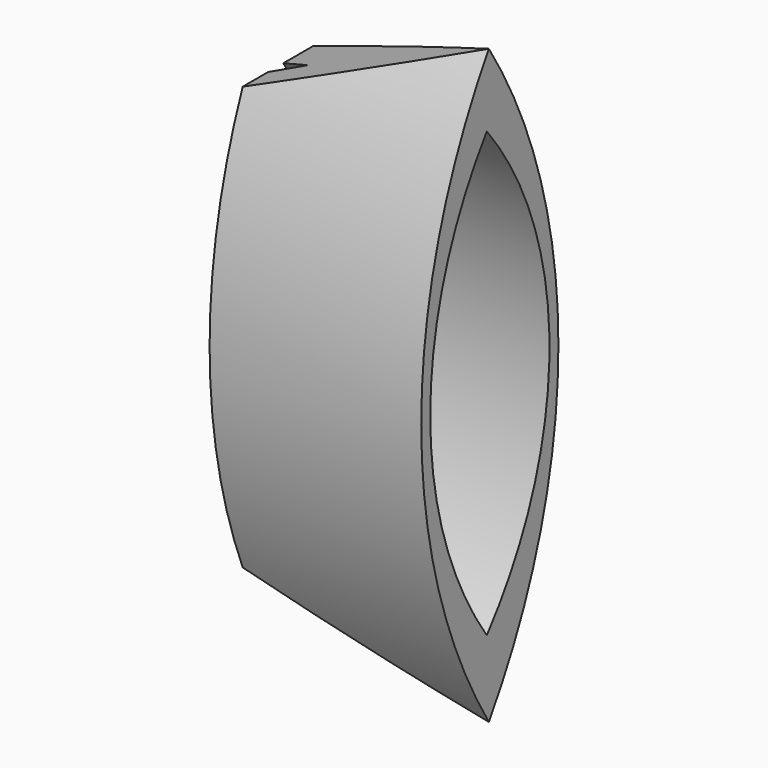
from build123d import *

# Parameters (mm, degrees)
F0_W     = 50
F0_H     = 140
F1_DEPTH = 42
F3_DEPTH = 42
F5_DEPTH = 50
F7_DEPTH = 50
F9_DEPTH = 50


with BuildPart() as f1:
    # F0 (on Front) → F1 (new body)
    with BuildSketch(Plane.XZ):
        Rectangle(F0_W, F0_H)
    extrude(amount=F1_DEPTH)

    # F2 (on face) → F3 (cut)
    with BuildSketch(Plane.XZ.offset(42)):
        Polygon((25, 70), (-25, 70), (-25, 50), align=None)
        Polygon((-25, -50), (-25, -70), (25, -70), align=None)
    extrude(amount=-F3_DEPTH, mode=Mode.SUBTRACT)

    # F4 (on face) → F5 (cut)
    with BuildSketch(Plane.YZ.offset(25)):
        with BuildLine():
            ThreePointArc((-21, -70), (-40.967372, 0), (-21, 70))
            Line((-21, 70), (-47.731567, 70))
            Line((-47.731567, 70), (-47.731567, -70))
            Line((-47.731567, -70), (-21, -70))
        make_face()
    extrude(amount=-F5_DEPTH, mode=Mode.SUBTRACT)

    # F6 (on face) → F7 (cut)
    with BuildSketch(Plane.YZ.offset(25)):
        with BuildLine():
            ThreePointArc((-21, 70), (-0.464572, 0), (-21, -70))
            Line((-21, -70), (3.54092, -70))
            Line((3.54092, -70), (3.54092, 70))
            Line((3.54092, 70), (-21, 70))
        make_face()
    extrude(amount=-F7_DEPTH, mode=Mode.SUBTRACT)

    # F8 (on face) → F9 (cut)
    with BuildSketch(Plane.YZ.offset(25)):
        with BuildLine():
            ThreePointArc((-21.610456, 53.072974), (-38.307918, 0.665912), (-21.610456, -51.741149))
            ThreePointArc((-21.610456, -51.741149), (-3.101031, 0.665912), (-21.610456, 53.072974))
        make_face()
    extrude(amount=-F9_DEPTH, mode=Mode.SUBTRACT)


solid = f1.part
